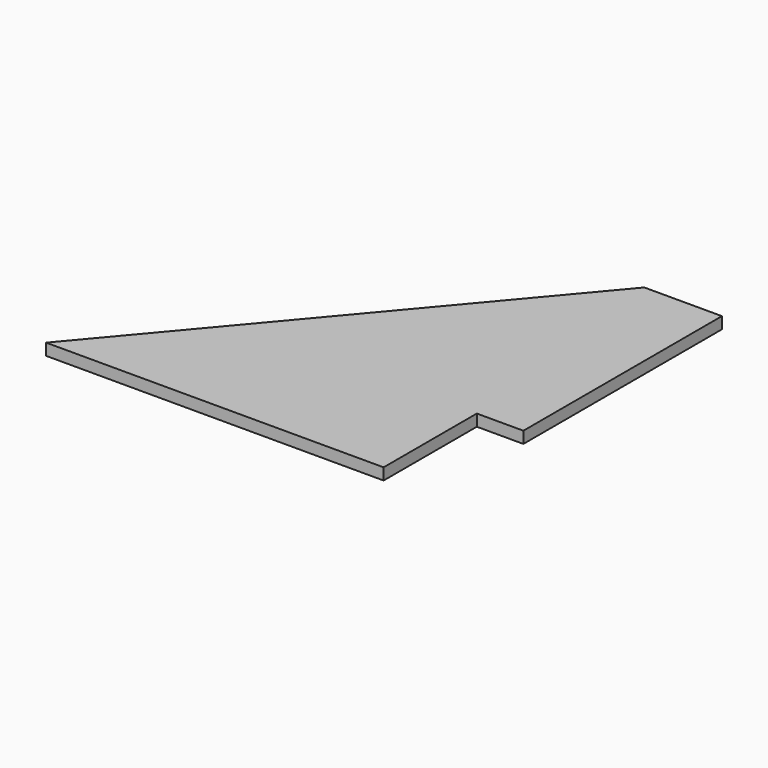
from build123d import *

# Parameters (mm, degrees)
F1_DEPTH = 300
F2_W     = 1200
F2_H     = 3003.149206
F3_DEPTH = 300.001


with BuildPart() as f1:
    # F0 (on Top) → F1 (new body)
    with BuildSketch(Plane.XY):
        Polygon((-9900, 0), (0, 0), (0, 9400), (-2000, 9400), align=None)
    extrude(amount=F1_DEPTH)

    # F2 (on face) → F3 (cut, through all)
    with BuildSketch(Plane.XY.offset(300)):
        with Locations((-600, 1501.574603)):
            Rectangle(F2_W, F2_H)
    extrude(amount=-F3_DEPTH, mode=Mode.SUBTRACT)


solid = f1.part
